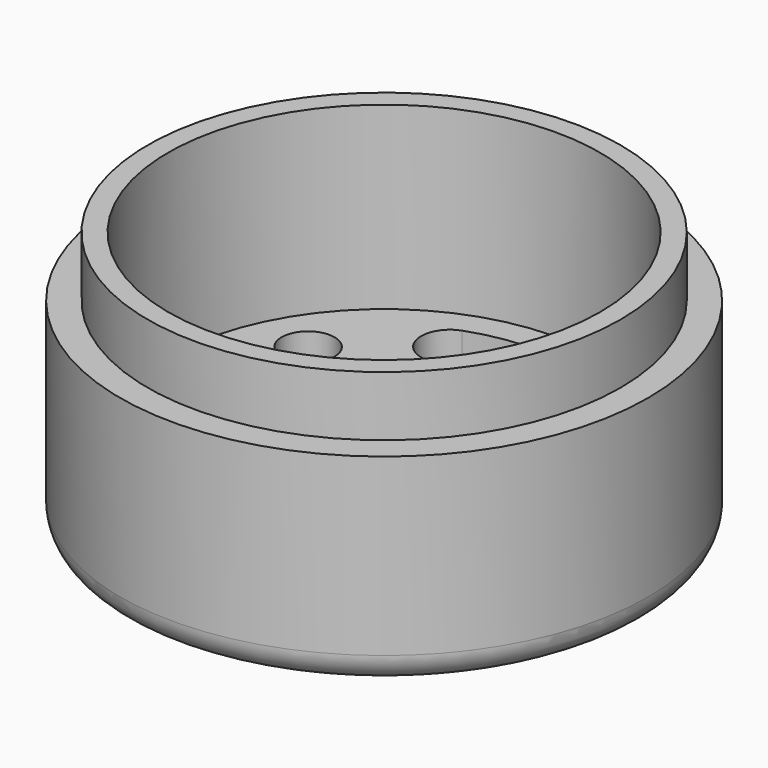
from build123d import *

# Parameters (mm, degrees)
SKETCH_R        = 11
PAD_DEPTH       = 8.5
SKETCH001_R     = 9.85
PAD001_DEPTH    = 2.5
SKETCH002_R     = 9
POCKET_DEPTH    = 7.5
SKETCH003_R     = 1.95
POCKET001_DEPTH = 1.5
FILLET_R        = 1.2
SKETCH005_R     = 1.1
POCKET002_DEPTH = 2
POCKET003_DEPTH = 3.5


with BuildPart() as part:
    # Sketch → Pad (new body)
    with BuildSketch(Plane.XY):
        Circle(SKETCH_R)
    extrude(amount=PAD_DEPTH)

    # Sketch001 (on Face3 of Pad) → Pad001 (join)
    with BuildSketch(Plane.XY.offset(8.5)):
        Circle(SKETCH001_R)
    extrude(amount=PAD001_DEPTH)

    # Sketch002 (on Face5 of Pad001) → Pocket (cut)
    with BuildSketch(Plane.XY.offset(11)):
        Circle(SKETCH002_R)
    extrude(amount=-POCKET_DEPTH, mode=Mode.SUBTRACT)

    # Sketch003 (on Face2 of Pocket) → Pocket001 (cut)
    with BuildSketch(Plane(origin=(0, 0, 0), x_dir=(1, 0, 0), z_dir=(0, 0, -1))):
        with Locations((0, 6.8)):
            Circle(SKETCH003_R)
        with Locations((-5.8889727457, -3.4)):
            Circle(SKETCH003_R)
        with Locations((5.8889727457, -3.4)):
            Circle(SKETCH003_R)
    extrude(amount=-POCKET001_DEPTH, mode=Mode.SUBTRACT)

    # Fillet
    fillet_edges = [part.edges().sort_by_distance(p)[0] for p in [
        (-11, 0, 0),
    ]]
    fillet(fillet_edges, radius=FILLET_R)

    # Sketch005 (on Face11 of Fillet) → Pocket002 (cut)
    with BuildSketch(Plane(origin=(0, 0, 1.5), x_dir=(1, 0, 0), z_dir=(0, 0, -1))):
        with Locations((-5.8889727457, -3.4)):
            Circle(SKETCH005_R)
        with Locations((0, 6.8)):
            Circle(SKETCH005_R)
        with Locations((5.8889727457, -3.4)):
            Circle(SKETCH005_R)
    extrude(amount=-POCKET002_DEPTH, mode=Mode.SUBTRACT)

    # Sketch007 (on Face4 of Pocket002) → Pocket003 (cut)
    with BuildSketch(Plane(origin=(0, 0, 0), x_dir=(1, 0, 0), z_dir=(0, 0, -1))):
        with BuildLine():
            ThreePointArc((-3.5353318533, 4.2132444372), (-3.3874236532, 5.9038429005), (-5.0780221165, 6.0517511006))
            ThreePointArc((-5.0780221165, 6.0517511006), (-6.8416006899, 3.95), (-7.7799812488, 1.3718206036))
            ThreePointArc((-7.7799812488, 1.3718206036), (-6.8065897584, -0.0183265132), (-5.4164426416, 0.9550649772))
            ThreePointArc((-3.5353318533, 4.2132444372), (-4.7631397208, 2.75), (-5.4164426416, 0.9550649772))
        make_face()
        with BuildLine():
            ThreePointArc((5.0780221165, 6.0517511006), (3.3874236532, 5.9038429005), (3.5353318533, 4.2132444372))
            ThreePointArc((5.4164426416, 0.9550649772), (4.7631397208, 2.75), (3.5353318533, 4.2132444372))
            ThreePointArc((5.4164426416, 0.9550649772), (6.8065897584, -0.0183265132), (7.7799812488, 1.3718206036))
            ThreePointArc((7.7799812488, 1.3718206036), (6.8416006899, 3.95), (5.0780221165, 6.0517511006))
        make_face()
        with BuildLine():
            ThreePointArc((-1.8811107883, -5.1683094143), (-3.4191661052, -5.8855163873), (-2.7019591323, -7.4235717042))
            ThreePointArc((-2.7019591323, -7.4235717042), (0, -7.9), (2.7019591323, -7.4235717042))
            ThreePointArc((2.7019591323, -7.4235717042), (3.4191661052, -5.8855163873), (1.8811107883, -5.1683094143))
            ThreePointArc((-1.8811107883, -5.1683094143), (0, -5.5), (1.8811107883, -5.1683094143))
        make_face()
        with BuildLine():
            ThreePointArc((-1.0284601755, 1.225671109), (-0.8805519754, 2.9162695724), (-2.5711504387, 3.0641777725))
            ThreePointArc((-2.5711504387, 3.0641777725), (-3.4641016151, 2), (-3.939231012, 0.6945927107))
            ThreePointArc((-3.939231012, 0.6945927107), (-2.9658395216, -0.6955544061), (-1.5756924048, 0.2778370843))
            ThreePointArc((-1.0284601755, 1.225671109), (-1.3856406461, 0.8), (-1.5756924048, 0.2778370843))
        make_face()
        with BuildLine():
            ThreePointArc((-0.5472322293, -1.5035081933), (0, -1.6), (0.5472322293, -1.5035081933))
            ThreePointArc((1.3680805733, -3.7587704831), (2.0852875463, -2.2207151662), (0.5472322293, -1.5035081933))
            ThreePointArc((-1.3680805733, -3.7587704831), (0, -4), (1.3680805733, -3.7587704831))
            ThreePointArc((-0.5472322293, -1.5035081933), (-2.0852875463, -2.2207151662), (-1.3680805733, -3.7587704831))
        make_face()
        with BuildLine():
            ThreePointArc((2.5711504387, 3.0641777725), (0.8805519754, 2.9162695724), (1.0284601755, 1.225671109))
            ThreePointArc((1.5756924048, 0.2778370843), (1.3856406461, 0.8), (1.0284601755, 1.225671109))
            ThreePointArc((1.5756924048, 0.2778370843), (2.9658395216, -0.6955544061), (3.939231012, 0.6945927107))
            ThreePointArc((3.939231012, 0.6945927107), (3.4641016151, 2), (2.5711504387, 3.0641777725))
        make_face()
    extrude(amount=-POCKET003_DEPTH, mode=Mode.SUBTRACT)


with BuildPart() as part_1:
    # Body placement: moved
    add(part.part.moved(Location((0, 1e-05, 68.2))))


solid = part_1.part
